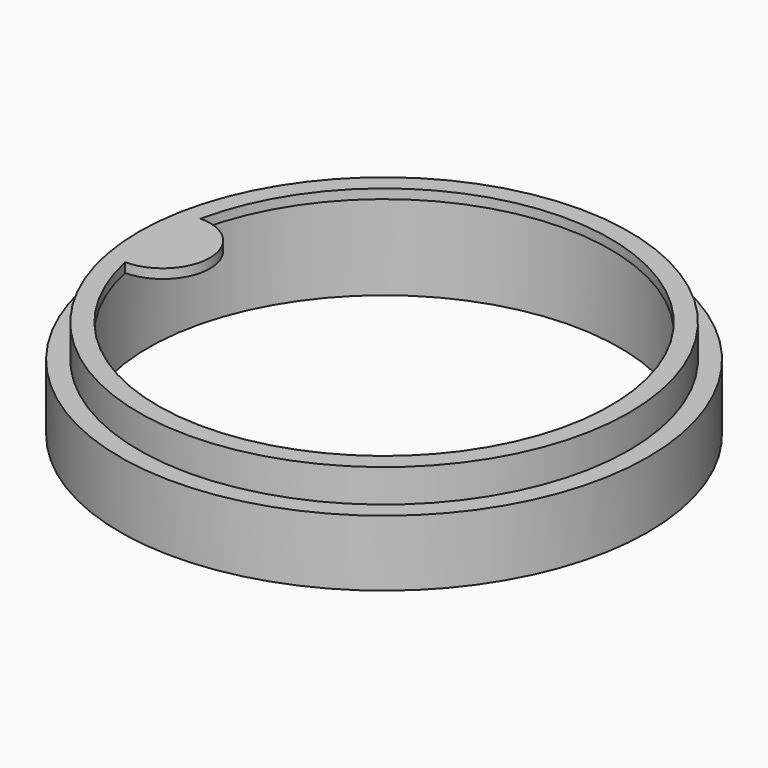
from build123d import *

# Parameters (mm, degrees)
SKETCH_R      = 28
SKETCH_R_2    = 25
PAD_DEPTH     = 7
SKETCH001_R   = 26
SKETCH001_R_2 = 25
PAD001_DEPTH  = 10.5
SKETCH002_R   = 25
PAD002_DEPTH  = 1


with BuildPart() as part:
    # Sketch → Pad (new body)
    with BuildSketch(Plane.XY):
        Circle(SKETCH_R)
        Circle(SKETCH_R_2, mode=Mode.SUBTRACT)
    extrude(amount=PAD_DEPTH)

    # Sketch001 → Pad001 (join)
    with BuildSketch(Plane.XY):
        Circle(SKETCH001_R)
        Circle(SKETCH001_R_2, mode=Mode.SUBTRACT)
    extrude(amount=PAD001_DEPTH)

    # Sketch002 (on DatumPlane) → Pad002 (join)
    with BuildSketch(Plane.XY.offset(9.5)):
        Circle(SKETCH002_R)
        with BuildLine():
            ThreePointArc((-23.473389, -5), (24, 0), (-23.473389, 5))
            ThreePointArc((-23.473389, -5), (-18.473389, 0), (-23.473389, 5))
        make_face(mode=Mode.SUBTRACT)
    extrude(amount=PAD002_DEPTH)


solid = part.part
